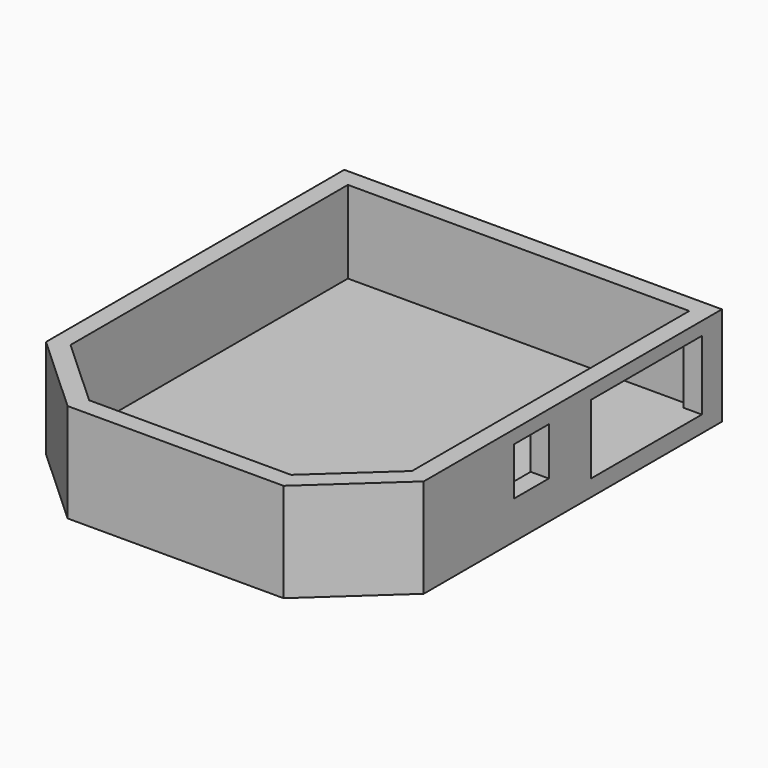
from build123d import *

# Parameters (mm, degrees)
F1_DEPTH = 5
F3_DEPTH = 25
F4_W     = 42
F4_H     = 21
F4_W_2   = 13.2
F4_H_2   = 14.5
F5_DEPTH = 5.5


with BuildPart() as f1:
    # F0 (on Top) → F1 (new body)
    with BuildSketch(Plane.XY):
        Polygon((-90, 0), (-24.5, 0), (0, 22.5), (0, 135.5), (-114.5, 135.5), (-114.5, 22.5), align=None)
    extrude(amount=F1_DEPTH)

    # F2 (on face) → F3 (join)
    with BuildSketch(Plane.XY.offset(5)):
        Polygon((-114.5, 22.5), (-90, 0), (-24.5, 0), (0, 22.5), (0, 135.5), (-114.5, 135.5), align=None)
        Polygon((-5.5, 24.916429), (-26.642334, 5.5), (-87.857666, 5.5), (-109, 24.916429), (-109, 130), (-5.5, 130), align=None, mode=Mode.SUBTRACT)
    extrude(amount=F3_DEPTH)

    # F4 (on face) → F5 (cut, through all)
    with BuildSketch(Plane.YZ):
        with Locations((106.9, 15.5)):
            Rectangle(F4_W, F4_H)
        with Locations((63.3, 18.75)):
            Rectangle(F4_W_2, F4_H_2)
    extrude(amount=-F5_DEPTH, mode=Mode.SUBTRACT)


solid = f1.part
